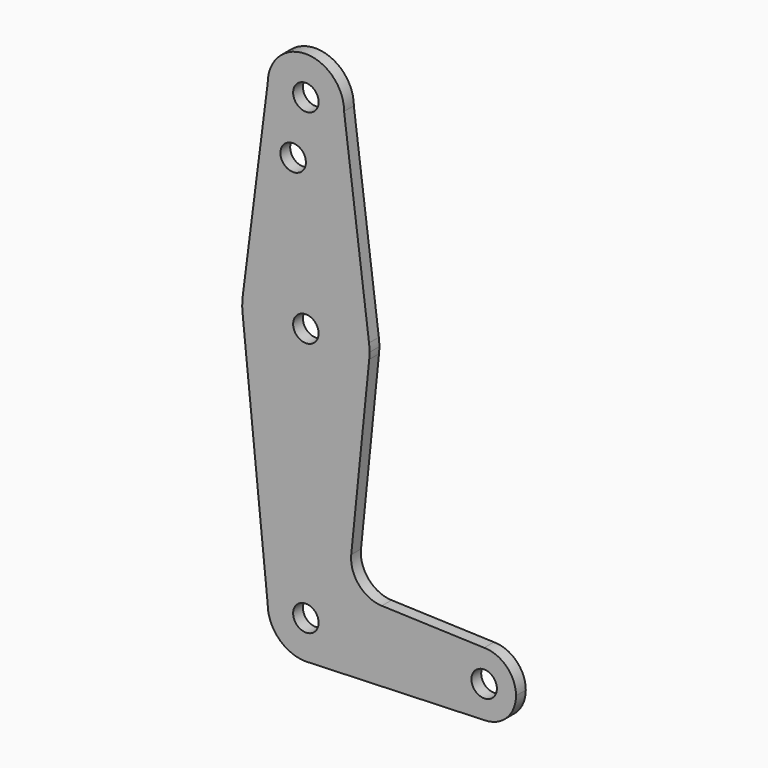
from build123d import *

# Parameters (mm, degrees)
F0_R     = 3.175
F1_DEPTH = 3.048


with BuildPart() as f1:
    # F0 (on Front) → F1 (new body)
    with BuildSketch(Plane.XZ):
        with BuildLine():
            ThreePointArc((15.794203, 61.90038), (15.854788, 62.699171), (15.875, 63.5))
            ThreePointArc((15.875, 63.5), (15.843082, 64.506168), (15.747457, 65.508289))
            ThreePointArc((15.747457, 65.508289), (0, 79.375), (-15.747457, 65.508289))
            ThreePointArc((-15.747457, 65.508289), (-15.873668, 63.705667), (-15.794203, 61.90038))
            ThreePointArc((-15.794203, 61.90038), (0, 47.625), (15.794203, 61.90038))
        make_face()
        with Locations((0, 63.5)):
            Circle(F0_R, mode=Mode.SUBTRACT)
        with BuildLine():
            ThreePointArc((-15.747457, 65.508289), (0, 79.375), (15.747457, 65.508289))
            Line((15.747457, 65.508289), (9.525, 114.3))
            ThreePointArc((9.525, 114.3), (0, 104.775), (-9.525, 114.3))
            Line((-9.525, 114.3), (-15.747457, 65.508289))
        make_face()
        with Locations((-3.175, 100.0252)):
            Circle(F0_R, mode=Mode.SUBTRACT)
        with BuildLine():
            Line((11.307007, 17.595046), (15.794203, 61.90038))
            ThreePointArc((15.794203, 61.90038), (0, 47.625), (-15.794203, 61.90038))
            Line((-15.794203, 61.90038), (-9.525, 0))
            ThreePointArc((-9.525, 0), (0, 9.525), (9.525, 0))
            ThreePointArc((9.525, 0), (6.970557, -6.491299), (0.677344, -9.500886))
            Line((0.677344, -9.500886), (44.732405, -7.932475))
            ThreePointArc((44.732405, -7.932475), (36.513756, -0.141225), (44.45, 7.9375))
            Line((44.45, 7.9375), (18.932989, 8.848822))
            ThreePointArc((18.932989, 8.848822), (13.224462, 11.569184), (11.307007, 17.595046))
        make_face()
        with BuildLine():
            ThreePointArc((-9.525, 114.3), (0, 104.775), (9.525, 114.3))
            ThreePointArc((9.525, 114.3), (0, 123.825), (-9.525, 114.3))
        make_face()
        with Locations((0, 114.3)):
            Circle(F0_R, mode=Mode.SUBTRACT)
        with BuildLine():
            ThreePointArc((9.525, 0), (0, 9.525), (-9.525, 0))
            ThreePointArc((-9.525, 0), (-6.735192, -6.735192), (0, -9.525))
            Line((0, -9.525), (0.677344, -9.500886))
            ThreePointArc((0.677344, -9.500886), (6.970557, -6.491299), (9.525, 0))
        make_face()
        Circle(F0_R, mode=Mode.SUBTRACT)
        with BuildLine():
            Line((0.677344, -9.500886), (0, -9.525))
            ThreePointArc((0, -9.525), (0.338886, -9.51897), (0.677344, -9.500886))
        make_face()
        with BuildLine():
            ThreePointArc((52.3875, 0), (50.06266, 5.61266), (44.45, 7.9375))
            ThreePointArc((44.45, 7.9375), (36.513756, -0.141225), (44.732405, -7.932475))
            ThreePointArc((44.732405, -7.932475), (50.161633, -5.51191), (52.3875, 0))
        make_face()
        with Locations((44.45, 0)):
            Circle(F0_R, mode=Mode.SUBTRACT)
    extrude(amount=F1_DEPTH)


solid = f1.part
